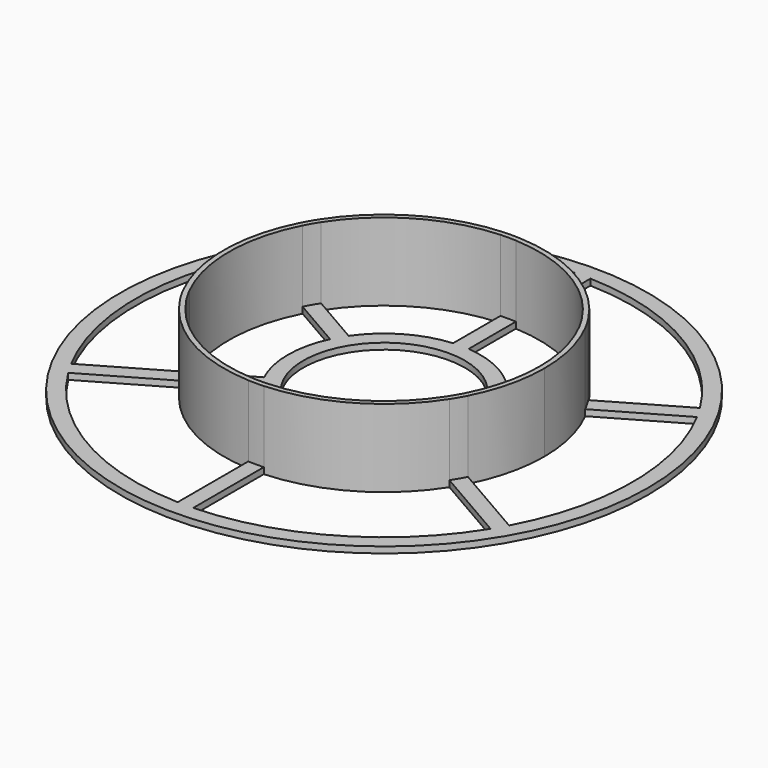
from build123d import *

# Parameters (mm, degrees)
F0_R     = 85
F0_R_2   = 26
F1_DEPTH = 2
F2_DEPTH = 25


with BuildPart() as f1:
    # F0 (on Top) → F1 (new body)
    with BuildSketch(Plane.XY):
        Circle(F0_R)
        with BuildLine():
            ThreePointArc((43.384432, 27.934765), (44.686911, 25.8), (45.884432, 23.604638))
            Line((45.884432, 23.604638), (70.498195, 37.8154))
            ThreePointArc((70.498195, 37.8154), (80, 0), (70.498195, -37.8154))
            Line((70.498195, -37.8154), (45.884432, -23.604638))
            ThreePointArc((45.884432, -23.604638), (44.686911, -25.8), (43.384432, -27.934765))
            Line((43.384432, -27.934765), (67.998195, -42.145527))
            ThreePointArc((67.998195, -42.145527), (40, -69.282032), (2.5, -79.960928))
            Line((2.5, -79.960928), (2.5, -51.539402))
            ThreePointArc((2.5, -51.539402), (0, -51.6), (-2.5, -51.539402))
            Line((-2.5, -51.539402), (-2.5, -79.960928))
            ThreePointArc((-2.5, -79.960928), (-40, -69.282032), (-67.998195, -42.145527))
            Line((-67.998195, -42.145527), (-43.384432, -27.934765))
            ThreePointArc((-43.384432, -27.934765), (-44.686911, -25.8), (-45.884432, -23.604638))
            Line((-45.884432, -23.604638), (-70.498195, -37.8154))
            ThreePointArc((-70.498195, -37.8154), (-80, 0), (-70.498195, 37.8154))
            Line((-70.498195, 37.8154), (-45.884432, 23.604638))
            ThreePointArc((-45.884432, 23.604638), (-44.686911, 25.8), (-43.384432, 27.934765))
            Line((-43.384432, 27.934765), (-67.998195, 42.145527))
            ThreePointArc((-67.998195, 42.145527), (-40, 69.282032), (-2.5, 79.960928))
            Line((-2.5, 79.960928), (-2.5, 51.539402))
            ThreePointArc((-2.5, 51.539402), (0, 51.6), (2.5, 51.539402))
            Line((2.5, 51.539402), (2.5, 79.960928))
            ThreePointArc((2.5, 79.960928), (40, 69.282032), (67.998195, 42.145527))
            Line((67.998195, 42.145527), (43.384432, 27.934765))
        make_face(mode=Mode.SUBTRACT)
        with BuildLine():
            Line((28.009344, 13.284451), (44.49711, 22.803667))
            ThreePointArc((44.49711, 22.803667), (43.30127, 25), (41.99711, 27.133794))
            Line((41.99711, 27.133794), (25.509344, 17.614578))
            ThreePointArc((25.509344, 17.614578), (15.5, 26.846788), (2.5, 30.899029))
            Line((2.5, 30.899029), (2.5, 49.937461))
            ThreePointArc((2.5, 49.937461), (0, 50), (-2.5, 49.937461))
            Line((-2.5, 49.937461), (-2.5, 30.899029))
            ThreePointArc((-2.5, 30.899029), (-15.5, 26.846788), (-25.509344, 17.614578))
            Line((-25.509344, 17.614578), (-41.99711, 27.133794))
            ThreePointArc((-41.99711, 27.133794), (-43.30127, 25), (-44.49711, 22.803667))
            Line((-44.49711, 22.803667), (-28.009344, 13.284451))
            ThreePointArc((-28.009344, 13.284451), (-31, 0), (-28.009344, -13.284451))
            Line((-28.009344, -13.284451), (-44.49711, -22.803667))
            ThreePointArc((-44.49711, -22.803667), (-43.30127, -25), (-41.99711, -27.133794))
            Line((-41.99711, -27.133794), (-25.509344, -17.614578))
            ThreePointArc((-25.509344, -17.614578), (-15.5, -26.846788), (-2.5, -30.899029))
            Line((-2.5, -30.899029), (-2.5, -49.937461))
            ThreePointArc((-2.5, -49.937461), (0, -50), (2.5, -49.937461))
            Line((2.5, -49.937461), (2.5, -30.899029))
            ThreePointArc((2.5, -30.899029), (15.5, -26.846788), (25.509344, -17.614578))
            Line((25.509344, -17.614578), (41.99711, -27.133794))
            ThreePointArc((41.99711, -27.133794), (43.30127, -25), (44.49711, -22.803667))
            Line((44.49711, -22.803667), (28.009344, -13.284451))
            ThreePointArc((28.009344, -13.284451), (31, 0), (28.009344, 13.284451))
        make_face()
        Circle(F0_R_2, mode=Mode.SUBTRACT)
    extrude(amount=F1_DEPTH)

    # F0 (on Top) → F2 (join)
    with BuildSketch(Plane.XY):
        with BuildLine():
            ThreePointArc((45.884432, -23.604638), (50.150756, -12.143379), (51.6, 0))
            ThreePointArc((51.6, 0), (50.150756, 12.143379), (45.884432, 23.604638))
            ThreePointArc((45.884432, 23.604638), (44.686911, 25.8), (43.384432, 27.934765))
            ThreePointArc((43.384432, 27.934765), (25.8, 44.686911), (2.5, 51.539402))
            ThreePointArc((2.5, 51.539402), (0, 51.6), (-2.5, 51.539402))
            ThreePointArc((-2.5, 51.539402), (-25.8, 44.686911), (-43.384432, 27.934765))
            ThreePointArc((-43.384432, 27.934765), (-44.686911, 25.8), (-45.884432, 23.604638))
            ThreePointArc((-45.884432, 23.604638), (-51.6, 0), (-45.884432, -23.604638))
            ThreePointArc((-45.884432, -23.604638), (-44.686911, -25.8), (-43.384432, -27.934765))
            ThreePointArc((-43.384432, -27.934765), (-25.8, -44.686911), (-2.5, -51.539402))
            ThreePointArc((-2.5, -51.539402), (0, -51.6), (2.5, -51.539402))
            ThreePointArc((2.5, -51.539402), (25.8, -44.686911), (43.384432, -27.934765))
            ThreePointArc((43.384432, -27.934765), (44.686911, -25.8), (45.884432, -23.604638))
        make_face()
        with BuildLine():
            ThreePointArc((44.49711, 22.803667), (48.604812, 11.72912), (50, 0))
            ThreePointArc((50, 0), (48.604812, -11.72912), (44.49711, -22.803667))
            ThreePointArc((44.49711, -22.803667), (43.30127, -25), (41.99711, -27.133794))
            ThreePointArc((41.99711, -27.133794), (25, -43.30127), (2.5, -49.937461))
            ThreePointArc((2.5, -49.937461), (0, -50), (-2.5, -49.937461))
            ThreePointArc((-2.5, -49.937461), (-25, -43.30127), (-41.99711, -27.133794))
            ThreePointArc((-41.99711, -27.133794), (-43.30127, -25), (-44.49711, -22.803667))
            ThreePointArc((-44.49711, -22.803667), (-50, 0), (-44.49711, 22.803667))
            ThreePointArc((-44.49711, 22.803667), (-43.30127, 25), (-41.99711, 27.133794))
            ThreePointArc((-41.99711, 27.133794), (-25, 43.30127), (-2.5, 49.937461))
            ThreePointArc((-2.5, 49.937461), (0, 50), (2.5, 49.937461))
            ThreePointArc((2.5, 49.937461), (25, 43.30127), (41.99711, 27.133794))
            ThreePointArc((41.99711, 27.133794), (43.30127, 25), (44.49711, 22.803667))
        make_face(mode=Mode.SUBTRACT)
    extrude(amount=F2_DEPTH)


solid = f1.part
